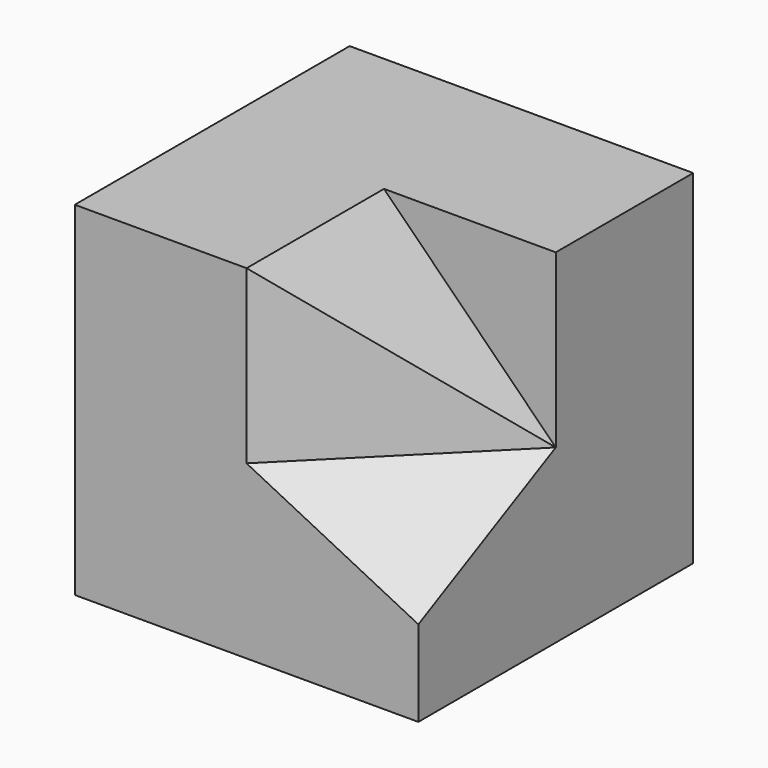
from build123d import *

# Parameters (mm, degrees)
F0_W      = 40
F0_H      = 40
F1_DEPTH  = 40
F2_W      = 20
F2_H      = 20
F3_DEPTH  = 20
F7_DEPTH  = 24.4958974278
F9_DEPTH  = 20
F11_DEPTH = 20


with BuildPart() as f1:
    # F0 (on Front) → F1 (new body)
    with BuildSketch(Plane.XZ):
        with Locations((20, 20)):
            Rectangle(F0_W, F0_H)
    extrude(amount=F1_DEPTH)

    # F2 (on face) → F3 (cut)
    with BuildSketch(Plane.XZ.offset(40)):
        with Locations((30, 30)):
            Rectangle(F2_W, F2_H)
    extrude(amount=-F3_DEPTH, mode=Mode.SUBTRACT)

    # F6 (on 3pt) → F7 (cut, through all)
    with BuildSketch(Plane(origin=(16.6666666667, -16.6666666667, 33.3333333333), x_dir=(0.9128709292, 0.1825741858, -0.3651483717), z_dir=(-0.4082482905, 0.4082482905, -0.8164965809))):
        Polygon((3.6514837167, 26.83281573), (25.5603860169, 8.94427191), (25.5603860169, 31.304951685), align=None)
    extrude(amount=-F7_DEPTH, mode=Mode.SUBTRACT)

    # F8 (on face) → F9 (join, through all)
    with BuildSketch(Plane.XZ.offset(20)):
        Polygon((40, 20), (20, 40), (20, 20), align=None)
    extrude(amount=F9_DEPTH)

    # F10 (on face) → F11 (cut, through all)
    with BuildSketch(Plane(origin=(0, 0, 20), x_dir=(1, 0, 0), z_dir=(0, 0, -1))):
        Polygon((20, 40), (40, 20), (40, 40), align=None)
    extrude(amount=-F11_DEPTH, mode=Mode.SUBTRACT)


solid = f1.part
